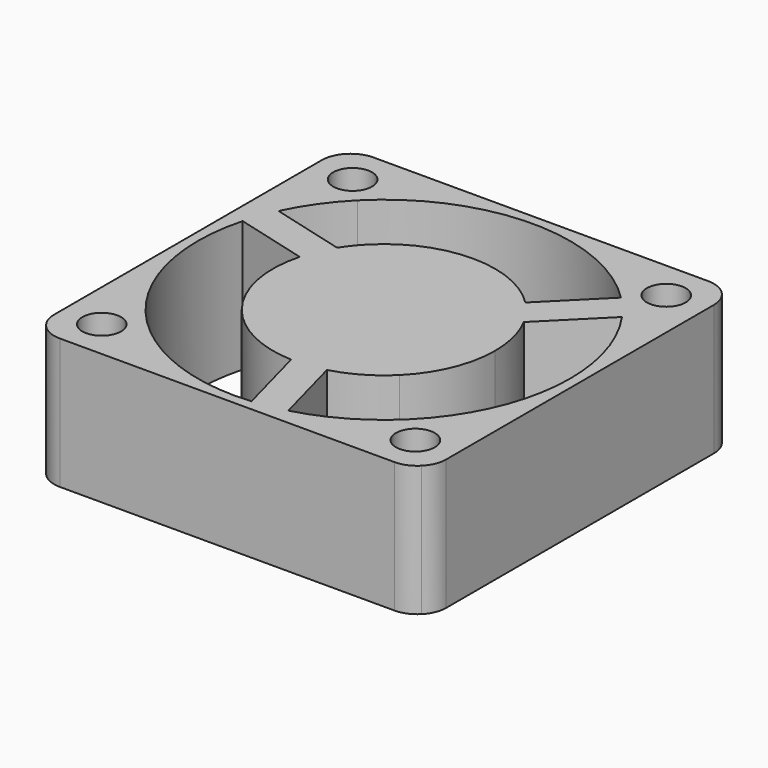
from build123d import *

# Parameters (mm, degrees)
F1_DEPTH = 10


with BuildPart() as f1:
    # F0 (on Top) → F1 (new body)
    with BuildSketch(Plane.XY):
        with BuildLine():
            ThreePointArc((-15, -12.8), (-14.8325349715, -13.6419035512), (-14.3556349186, -14.3556349186))
            Line((-14.3556349186, -14.3556349186), (-13.0500535701, -13.0500535701))
            ThreePointArc((-13.0500535701, -13.0500535701), (-13.0500535701, -10.9499464299), (-10.9499464299, -10.9499464299))
            Line((-10.9499464299, -10.9499464299), (-10.0762716319, -10.0762716319))
            ThreePointArc((-10.0762716319, -10.0762716319), (-13.7644430246, -3.6881713927), (-13.7644430246, 3.6881713927))
            ThreePointArc((-13.7644430246, 3.6881713927), (-13.3861832325, 4.8859593188), (-12.903914065, 6.0457838039))
            ThreePointArc((-12.903914065, 6.0457838039), (-11.6654807744, 8.1840734541), (-10.0762716319, 10.0762716319))
            Line((-10.0762716319, 10.0762716319), (-10.9499464299, 10.9499464299))
            ThreePointArc((-10.9499464299, 10.9499464299), (-13.0500535701, 10.9499464299), (-13.0500535701, 13.0500535701))
            Line((-13.0500535701, 13.0500535701), (-14.3556349186, 14.3556349186))
            ThreePointArc((-14.3556349186, 14.3556349186), (-14.8325349715, 13.6419035512), (-15, 12.8))
            Line((-15, 12.8), (-15, -12.8))
        make_face()
        with BuildLine():
            Line((-12.8, -15), (12.8, -15))
            ThreePointArc((12.8, -15), (13.6419035512, -14.8325349715), (14.3556349186, -14.3556349186))
            Line((14.3556349186, -14.3556349186), (13.0500535701, -13.0500535701))
            ThreePointArc((13.0500535701, -13.0500535701), (10.9499464299, -13.0500535701), (10.9499464299, -10.9499464299))
            Line((10.9499464299, -10.9499464299), (10.0762716319, -10.0762716319))
            ThreePointArc((10.0762716319, -10.0762716319), (7.125, -12.3408620039), (3.6881713927, -13.7644430246))
            ThreePointArc((3.6881713927, -13.7644430246), (2.4617267243, -14.0357543985), (1.2161546725, -14.1980092905))
            ThreePointArc((1.2161546725, -14.1980092905), (-4.8859593188, -13.3861832325), (-10.0762716319, -10.0762716319))
            Line((-10.0762716319, -10.0762716319), (-10.9499464299, -10.9499464299))
            ThreePointArc((-10.9499464299, -10.9499464299), (-10.6280388942, -11.4317151029), (-10.515, -12))
            ThreePointArc((-10.515, -12), (-11.4317151029, -13.3719611058), (-13.0500535701, -13.0500535701))
            Line((-13.0500535701, -13.0500535701), (-14.3556349186, -14.3556349186))
            ThreePointArc((-14.3556349186, -14.3556349186), (-13.6419035512, -14.8325349715), (-12.8, -15))
        make_face()
        with BuildLine():
            Line((13.0500535701, -13.0500535701), (14.3556349186, -14.3556349186))
            ThreePointArc((14.3556349186, -14.3556349186), (14.8325349715, -13.6419035512), (15, -12.8))
            Line((15, -12.8), (15, 12.8))
            ThreePointArc((15, 12.8), (14.8325349715, 13.6419035512), (14.3556349186, 14.3556349186))
            Line((14.3556349186, 14.3556349186), (13.0500535701, 13.0500535701))
            ThreePointArc((13.0500535701, 13.0500535701), (13.3719611058, 12.5682848971), (13.485, 12))
            ThreePointArc((13.485, 12), (12.5682848971, 10.6280388942), (10.9499464299, 10.9499464299))
            Line((10.9499464299, 10.9499464299), (10.0762716319, 10.0762716319))
            ThreePointArc((10.0762716319, 10.0762716319), (10.9244565082, 9.1497950797), (11.6877593925, 8.1522254865))
            ThreePointArc((11.6877593925, 8.1522254865), (13.5943567583, 4.2726998875), (14.25, 0))
            ThreePointArc((14.25, 0), (13.1652833383, -5.4532389112), (10.0762716319, -10.0762716319))
            Line((10.0762716319, -10.0762716319), (10.9499464299, -10.9499464299))
            ThreePointArc((10.9499464299, -10.9499464299), (12.5682848971, -10.6280388942), (13.485, -12))
            ThreePointArc((13.485, -12), (13.3719611058, -12.5682848971), (13.0500535701, -13.0500535701))
        make_face()
        with BuildLine():
            Line((13.0500535701, 13.0500535701), (14.3556349186, 14.3556349186))
            ThreePointArc((14.3556349186, 14.3556349186), (13.6419035512, 14.8325349715), (12.8, 15))
            Line((12.8, 15), (-12.8, 15))
            ThreePointArc((-12.8, 15), (-13.6419035512, 14.8325349715), (-14.3556349186, 14.3556349186))
            Line((-14.3556349186, 14.3556349186), (-13.0500535701, 13.0500535701))
            ThreePointArc((-13.0500535701, 13.0500535701), (-11.4317151029, 13.3719611058), (-10.515, 12))
            ThreePointArc((-10.515, 12), (-10.6280388942, 11.4317151029), (-10.9499464299, 10.9499464299))
            Line((-10.9499464299, 10.9499464299), (-10.0762716319, 10.0762716319))
            ThreePointArc((-10.0762716319, 10.0762716319), (0, 14.25), (10.0762716319, 10.0762716319))
            Line((10.0762716319, 10.0762716319), (10.9499464299, 10.9499464299))
            ThreePointArc((10.9499464299, 10.9499464299), (10.9499464299, 13.0500535701), (13.0500535701, 13.0500535701))
        make_face()
        with BuildLine():
            ThreePointArc((-12.903914065, 6.0457838039), (-13.3861832325, 4.8859593188), (-13.7644430246, 3.6881713927))
            Line((-13.7644430246, 3.6881713927), (-8.2103695235, 2.1999618834))
            ThreePointArc((-8.2103695235, 2.1999618834), (-7.7919125039, 3.3964834066), (-7.200170896, 4.517470428))
            Line((-7.200170896, 4.517470428), (-12.903914065, 6.0457838039))
        make_face()
        with BuildLine():
            Line((-8.2103695235, 2.1999618834), (0, 0))
            Line((0, 0), (-6.0104076401, 6.0104076401))
            ThreePointArc((-6.0104076401, 6.0104076401), (-6.6473349317, 5.2974463948), (-7.200170896, 4.517470428))
            ThreePointArc((-7.200170896, 4.517470428), (-7.7919125039, 3.3964834066), (-8.2103695235, 2.1999618834))
        make_face()
        with BuildLine():
            Line((-6.0104076401, 6.0104076401), (0, 0))
            Line((0, 0), (6.0104076401, 6.0104076401))
            ThreePointArc((6.0104076401, 6.0104076401), (0, 8.5), (-6.0104076401, 6.0104076401))
        make_face()
        with BuildLine():
            Line((0, 0), (6.0104076401, -6.0104076401))
            ThreePointArc((6.0104076401, -6.0104076401), (7.8529760263, -3.2528091751), (8.5, 0))
            ThreePointArc((8.5, 0), (8.2493879044, 2.0488043348), (7.5123295995, 3.9767956936))
            ThreePointArc((7.5123295995, 3.9767956936), (6.8373971656, 5.0497524692), (6.0104076401, 6.0104076401))
            Line((6.0104076401, 6.0104076401), (0, 0))
        make_face()
        with BuildLine():
            Line((7.5123295995, 3.9767956936), (11.6877593925, 8.1522254865))
            ThreePointArc((11.6877593925, 8.1522254865), (10.9244565082, 9.1497950797), (10.0762716319, 10.0762716319))
            Line((10.0762716319, 10.0762716319), (6.0104076401, 6.0104076401))
            ThreePointArc((6.0104076401, 6.0104076401), (6.8373971656, 5.0497524692), (7.5123295995, 3.9767956936))
        make_face()
        with BuildLine():
            ThreePointArc((2.1999618834, -8.2103695235), (4.25, -7.3612159322), (6.0104076401, -6.0104076401))
            Line((6.0104076401, -6.0104076401), (0, 0))
            Line((0, 0), (2.1999618834, -8.2103695235))
        make_face()
        with BuildLine():
            Line((0, 0), (-6.0104076401, -6.0104076401))
            ThreePointArc((-6.0104076401, -6.0104076401), (-3.3964834066, -7.7919125039), (-0.3121587035, -8.4942661216))
            ThreePointArc((-0.3121587035, -8.4942661216), (0.9545153383, -8.4462358758), (2.1999618834, -8.2103695235))
            Line((2.1999618834, -8.2103695235), (0, 0))
        make_face()
        with BuildLine():
            ThreePointArc((-8.2103695235, 2.1999618834), (-8.2103695235, -2.1999618834), (-6.0104076401, -6.0104076401))
            Line((-6.0104076401, -6.0104076401), (0, 0))
            Line((0, 0), (-8.2103695235, 2.1999618834))
        make_face()
        with BuildLine():
            ThreePointArc((1.2161546725, -14.1980092905), (2.4617267243, -14.0357543985), (3.6881713927, -13.7644430246))
            Line((3.6881713927, -13.7644430246), (2.1999618834, -8.2103695235))
            ThreePointArc((2.1999618834, -8.2103695235), (0.9545153383, -8.4462358758), (-0.3121587035, -8.4942661216))
            Line((-0.3121587035, -8.4942661216), (1.2161546725, -14.1980092905))
        make_face()
    extrude(amount=F1_DEPTH)


solid = f1.part
